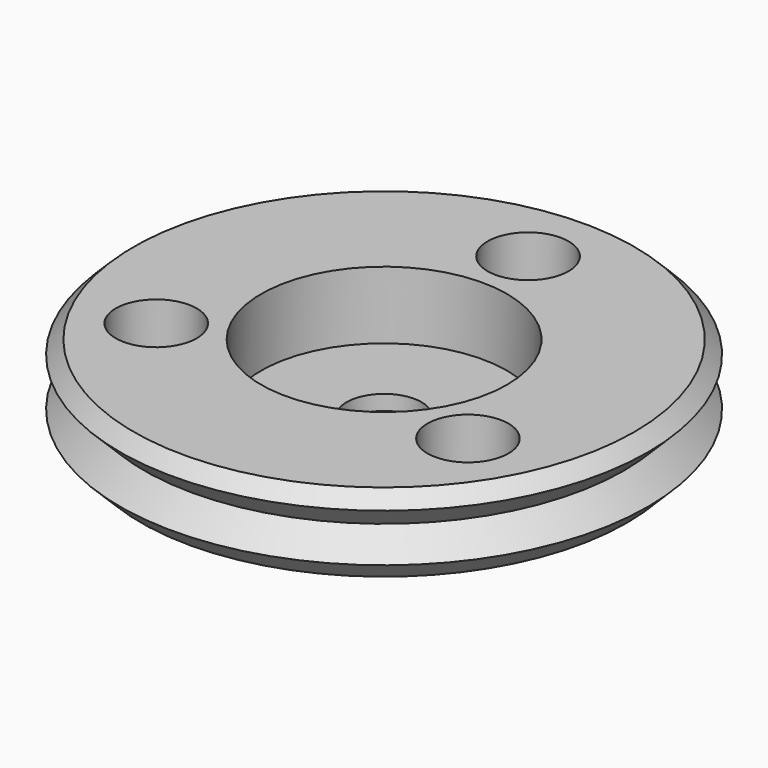
from build123d import *

# Parameters (mm, degrees)
CYLINDER002_R     = 20
CYLINDER002_DEPTH = 20
CYLINDER001_R     = 1.35
CYLINDER001_DEPTH = 10
ARRAY001_COUNT    = 3
CYLINDER_R        = 4.1
CYLINDER_DEPTH    = 2.25
SKETCH002_W       = 5
SKETCH002_H       = 4.7
ARRAY_Z_COUNT     = 6
ARRAY_Z_PITCH     = 1.6


with BuildPart() as clone_of_upperdomain:
    # Cylinder002 → Cylinder002 (new body)
    with BuildSketch(Plane.XY.offset(1.25)):
        Circle(CYLINDER002_R)
    extrude(amount=CYLINDER002_DEPTH)


with BuildPart() as obj1:
    # Cylinder001 → Cylinder001 (new body)
    with BuildSketch(Plane(origin=(0, 6, -4), x_dir=(1, 0, 0), z_dir=(0, 0, 1))):
        Circle(CYLINDER001_R)
    extrude(amount=CYLINDER001_DEPTH)

    # Array001: obj1 ×3 about axis
    array001_axis = Axis((0, 0, 0), (0, 0, 1))


with BuildPart() as obj1_1:
    add(obj1.part)
    for i in range(1, ARRAY001_COUNT):
        add(obj1.part.rotate(array001_axis, i * 360 / ARRAY001_COUNT))


with BuildPart() as lensfit:
    # Cylinder → Cylinder (new body)
    with BuildSketch(Plane.XY.offset(-1)):
        Circle(CYLINDER_R)
    extrude(amount=CYLINDER_DEPTH)


with BuildPart() as obj2:
    # Sketch002 → Revolution002 (revolve)
    with BuildSketch(Plane.XZ):
        with Locations((7.5, 0.85)):
            Rectangle(SKETCH002_W, SKETCH002_H)
    revolve(axis=Axis((0, 0, 0), (0, 0, 1)))


with BuildPart() as innergroovetool:
    # Sketch001 → Revolution001 (revolve)
    with BuildSketch(Plane.XZ):
        Polygon((4, 3.2), (4, 1.6), (8, 1.6), (8.8, 2.4), (8, 3.2), align=None)
    revolve(axis=Axis((0, 0, 0), (0, 0, 1)))

    # Array Z: InnerGrooveTool ×6


with BuildPart() as innergroovetool_1:
    add(innergroovetool.part)
    with Locations(*[(0, 0, -i * ARRAY_Z_PITCH) for i in range(1, ARRAY_Z_COUNT)]):
        add(innergroovetool.part)

    # Common: intersect obj2
    add(obj2.part, mode=Mode.INTERSECT)


with BuildPart() as lowercut:
    # Sketch → Revolution (revolve)
    with BuildSketch(Plane.XZ):
        Polygon((1.25, 4), (1.25, -1.5), (8, -1.5), (8, 3.2), (5, 3.2), (5, 4), align=None)
    revolve(axis=Axis((0, 0, 0), (0, 0, 1)))

    # Fusion001: union InnerGrooveTool
    add(innergroovetool_1.part)

    # Cut: cut LensFit
    add(lensfit.part, mode=Mode.SUBTRACT)

    # Cut001: cut obj1
    add(obj1_1.part, mode=Mode.SUBTRACT)

    # Cut002: cut Clone of UpperDomain
    add(clone_of_upperdomain.part, mode=Mode.SUBTRACT)


solid = lowercut.part
